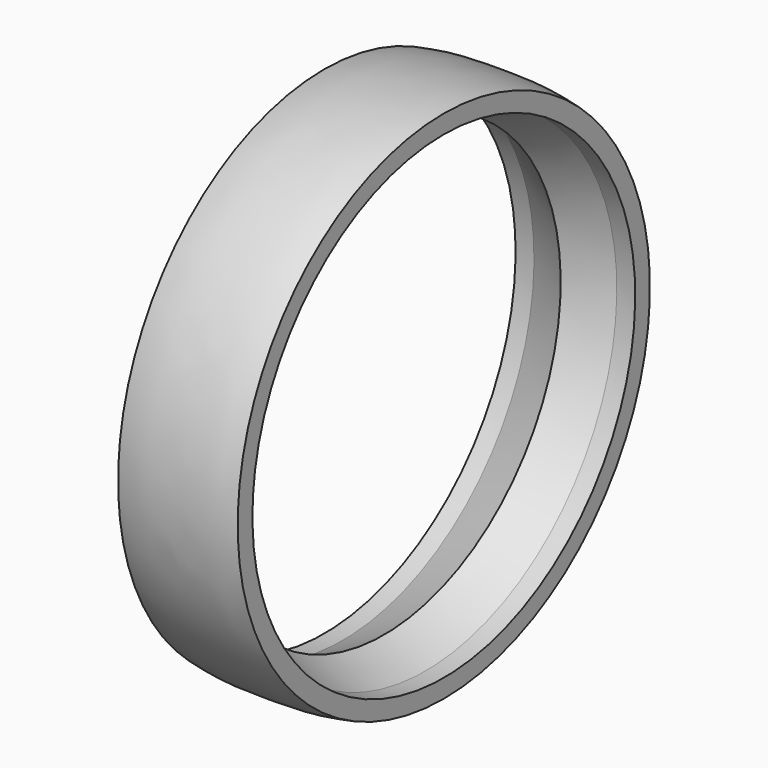
from build123d import *


with BuildPart() as f2:
    # F1 (on Front) → F2 (revolve)
    with BuildSketch(Plane.XZ):
        with BuildLine():
            Line((0, 28), (0, 26))
            Line((0, 26), (2, 26))
            Line((2, 26), (6.5, 24))
            Line((6.5, 24), (11, 26))
            Line((11, 26), (13, 26))
            Line((13, 26), (13, 28))
            add(Edge.make_bspline(
                [(0, 28), (2.166667, 28.5), (6.5, 28.5), (10.833333, 28.5), (13, 28)],
                knots=[0, 0, 0, 0, 6.519202, 13.038405, 13.038405, 13.038405, 13.038405], degree=3))
        make_face()
    revolve(axis=Axis((14, 0, 0), (1, 0, 0)))


solid = f2.part
